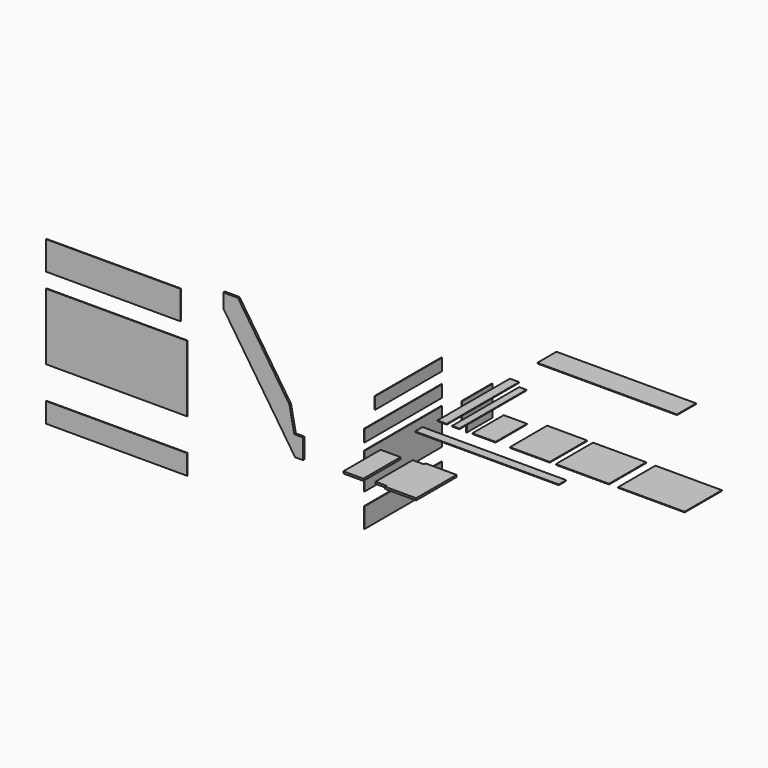
from build123d import *

# Parameters (mm, degrees)
F0_W     = 300
F0_H     = 700
F1_DEPTH = 30
F0_W_2   = 2160
F0_H_2   = 140
F0_W_3   = 140
F0_H_3   = 1360
F0_W_4   = 110
F0_H_4   = 1260
F0_W_5   = 2100
F0_H_5   = 360
F0_W_6   = 350
F0_H_6   = 590
F0_W_7   = 600
F0_W_8   = 800
F0_W_9   = 1000
F2_DEPTH = 10
F4_DEPTH = 30
F3_W     = 2120
F3_H     = 1000
F3_W_2   = 2020
F3_H_2   = 430
F3_H_3   = 300
F5_DEPTH = 10
F6_W     = 1460
F6_H     = 180
F6_H_2   = 540
F6_W_2   = 1260
F6_H_3   = 300
F7_DEPTH = 10


with BuildPart() as f1:
    # F0 (on Top) → F1 (new body)
    with BuildSketch(Plane.XY):
        with Locations((172.764546, 350.448103)):
            Rectangle(F0_W, F0_H)
        Polygon((1117.445389, 760.448098), (649.813489, 760.448098), (649.813489, 730.448365), (482.445389, 730.448365), (482.445389, 30.44844), (649.813789, 30.44844), (649.813789, 0.448103), (1117.445389, 0.448103), align=None)
    extrude(amount=F1_DEPTH)


with BuildPart() as f2:
    # F0 (on Top) → F2 (new body)
    with BuildSketch(Plane.XY):
        with Locations((1102.764546, 1418.945141)):
            Rectangle(F0_W_2, F0_H_2)
        with Locations((123.955633, 2410.906367)):
            Rectangle(F0_W_3, F0_H_3)
        with Locations((328.791015, 2360.906367)):
            Rectangle(F0_W_4, F0_H_4)
        with Locations((1103.955633, 3786.328964)):
            Rectangle(F0_W_5, F0_H_5)
        with Locations((752.405453, 2025.906367)):
            Rectangle(F0_W_6, F0_H_6)
        with Locations((1442.140865, 2080.906367)):
            Rectangle(F0_W_7, F0_H)
        with Locations((2232.303524, 2080.906367)):
            Rectangle(F0_W_8, F0_H)
        with Locations((3269.630432, 2080.906367)):
            Rectangle(F0_W_9, F0_H)
    extrude(amount=F2_DEPTH)


with BuildPart() as f4:
    # F3 (on Front) → F4 (new body)
    with BuildSketch(Plane.XZ):
        Polygon((-677.740008, 0.000524), (-557.231205, 0.000524), (-557.231205, 300.000101), (-689.863086, 300.000101), (-763.407334, 669.334204), (-1537.184775, 1830.000365), (-1757.231205, 1830.000365), (-1757.231205, 1619.237318), align=None)
    extrude(amount=F4_DEPTH)


with BuildPart() as f5:
    # F3 (on Front) → F5 (new body)
    with BuildSketch(Plane.XZ):
        with Locations((-3377.244598, 500.000524)):
            Rectangle(F3_W, F3_H)
        with Locations((-3427.244598, 1439.886417)):
            Rectangle(F3_W_2, F3_H_2)
        with Locations((-3377.244598, -637.351787)):
            Rectangle(F3_W, F3_H_3)
    extrude(amount=F5_DEPTH)


with BuildPart() as f7:
    # F6 (on Right) → F7 (new body)
    with BuildSketch(Plane.YZ):
        with Locations((1144.286524, 327.075299)):
            Rectangle(F6_W, F6_H)
        with Locations((1144.286532, -141.924809)):
            Rectangle(F6_W, F6_H_2)
        Polygon((2338.656902, -231.924653), (2338.656902, -411.924809), (2818.656778, -411.924809), (2818.656778, 38.075191), (2248.656788, 38.075191), (2248.656788, -231.924653), align=None)
        with Locations((1244.286524, 679.148939)):
            Rectangle(F6_W_2, F6_H)
        with Locations((1144.286532, -757.539427)):
            Rectangle(F6_W, F6_H_3)
    extrude(amount=F7_DEPTH)


solid = Compound([f1.part, f2.part, f4.part, f5.part, f7.part])
